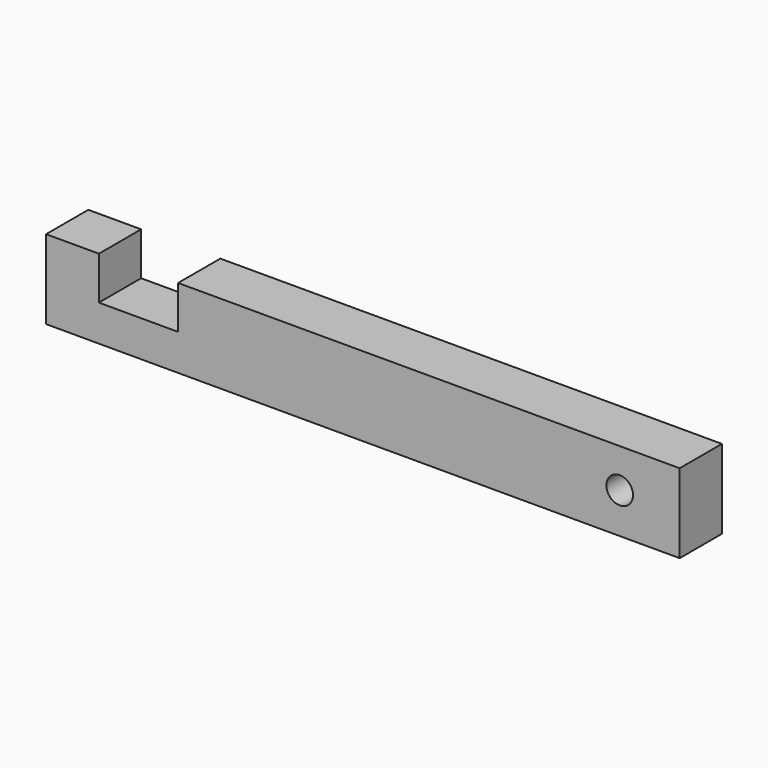
from build123d import *

# Parameters (mm, degrees)
F0_W     = 12.7
F0_H     = 19.05
F1_DEPTH = 152.4
F2_W     = 19.05
F2_H     = 10.359494
F3_DEPTH = 25.4
F5_D     = 6.4008


with BuildPart() as f1:
    # F0 (on Right) → F1 (new body)
    with BuildSketch(Plane.YZ):
        with Locations((2.279275, -0.169806)):
            Rectangle(F0_W, F0_H)
    extrude(amount=F1_DEPTH)

    # F2 (on face) → F3 (cut)
    with BuildSketch(Plane.XZ.offset(4.070725)):
        with Locations((22.225, 4.175447)):
            Rectangle(F2_W, F2_H)
    extrude(amount=-F3_DEPTH, mode=Mode.SUBTRACT)

    # F5 (through all)
    with Locations(Plane.XZ.offset(4.070725)):
        with Locations((137.973741, 0)):
            Hole(F5_D / 2)


solid = f1.part
